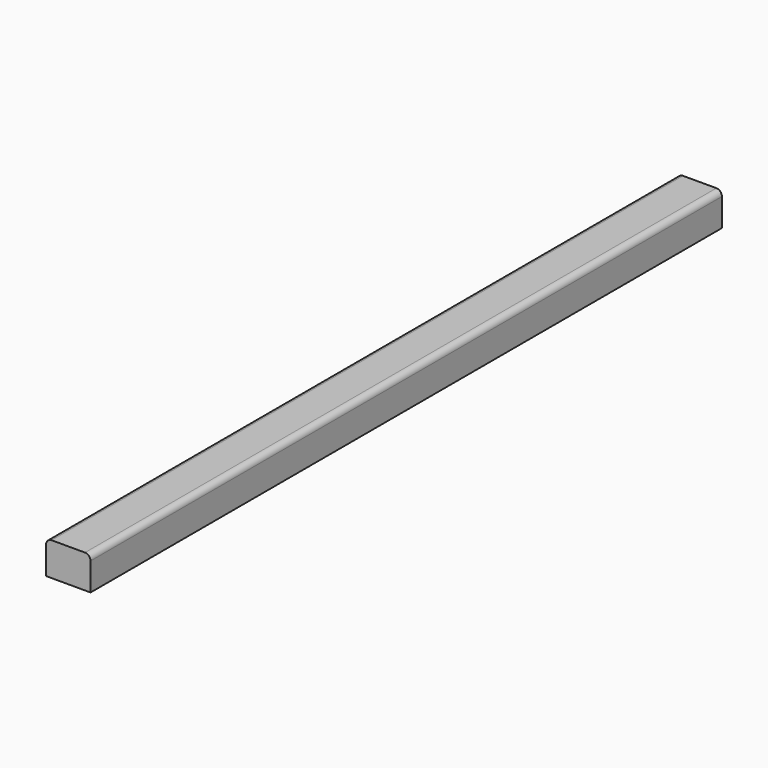
from build123d import *

# Parameters (mm, degrees)
F1_DEPTH = 901.7


with BuildPart() as f1:
    # F0 (on Front) → F1 (new body)
    with BuildSketch(Plane.XZ):
        with BuildLine():
            Line((-25.4, 12.7), (-25.4, -19.05))
            Line((-25.4, -19.05), (25.4, -19.05))
            Line((25.4, -19.05), (25.4, 12.7))
            ThreePointArc((25.4, 12.7), (23.540128, 17.190128), (19.05, 19.05))
            Line((19.05, 19.05), (-19.05, 19.05))
            ThreePointArc((-19.05, 19.05), (-23.540128, 17.190128), (-25.4, 12.7))
        make_face()
    extrude(amount=F1_DEPTH)


solid = f1.part
